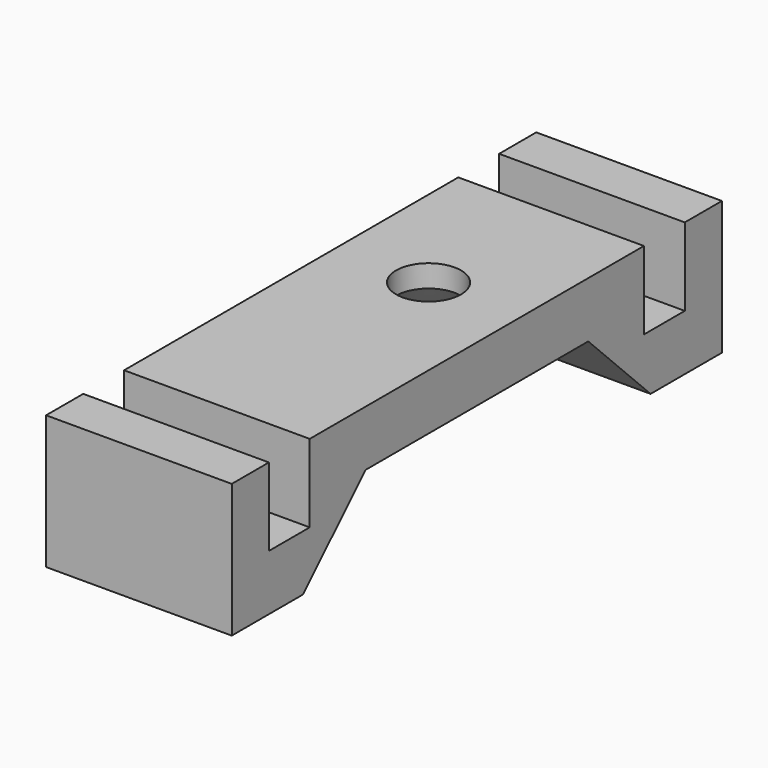
from build123d import *

# Parameters (mm, degrees)
PAD_DEPTH    = 5
SKETCH001_R  = 1.75
POCKET_DEPTH = 3.001
CHAMFER_SIZE = 1.8


with BuildPart() as part:
    # Sketch → Pad (new body, symmetric)
    with BuildSketch(Plane.YZ):
        Polygon((-11.25, 3), (11.25, 3), (11.25, -1.196), (14, -1.196), (14, 3), (16.5, 3), (16.5, -4.196), (11.696, -4.196), (7.5, 0), (-7.5, 0), (-11.696, -4.196), (-16.5, -4.196), (-16.5, 3), (-14, 3), (-14, -1.196), (-11.25, -1.196), align=None)
    extrude(amount=PAD_DEPTH, both=True)

    # Sketch001 → Pocket (cut, through all)
    with BuildSketch(Plane.XY):
        with Locations((0, 3)):
            Circle(SKETCH001_R)
    extrude(amount=POCKET_DEPTH, mode=Mode.SUBTRACT)

    # Chamfer
    chamfer_edges = [part.edges().sort_by_distance(p)[0] for p in [
        (-1.75, 3, 0),
    ]]
    chamfer(chamfer_edges, length=CHAMFER_SIZE)


solid = part.part
